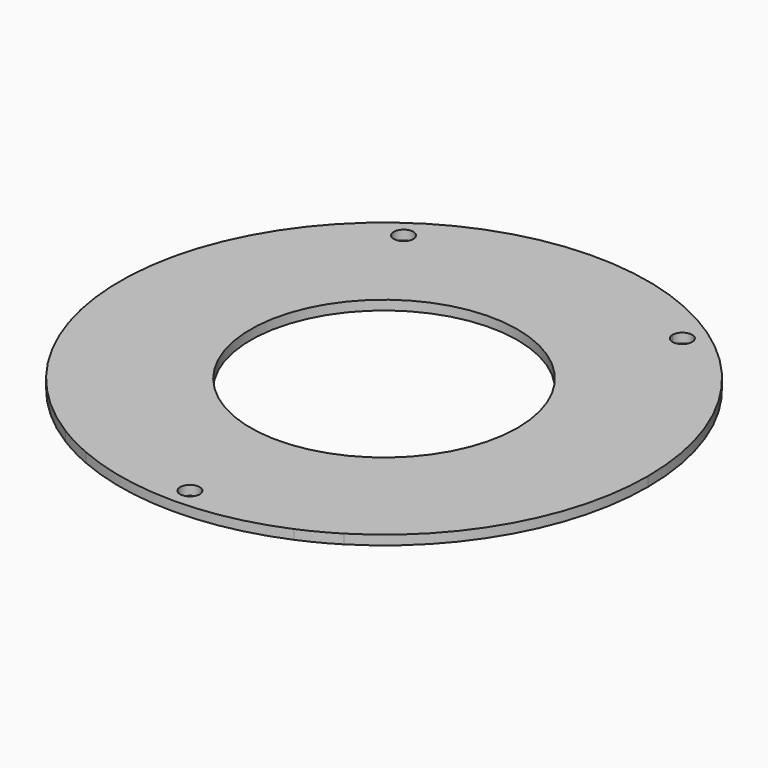
from build123d import *

# Parameters (mm, degrees)
F0_R     = 22.5
F1_DEPTH = 1.6


with BuildPart() as f1:
    # F0 (on Top) → F1 (new body)
    with BuildSketch(Plane.XY):
        with BuildLine():
            ThreePointArc((23.5, -37.7888872554), (38.8973006776, -21.6159663212), (44.5, 0))
            ThreePointArc((44.5, 0), (-21.6159663212, 38.8973006776), (-23.5, -37.7888872554))
            Line((-23.5, -37.7888872554), (-23.5, 31.8375))
            ThreePointArc((-23.5, 31.8375), (-24.666726189, 34.654226189), (-21.85, 33.4875))
            Line((-21.85, 33.4875), (21.85, 33.4875))
            ThreePointArc((21.85, 33.4875), (23.5, 35.1375), (25.15, 33.4875))
            ThreePointArc((25.15, 33.4875), (24.666726189, 32.320773811), (23.5, 31.8375))
            Line((23.5, 31.8375), (23.5, -37.7888872554))
        make_face()
        with BuildLine():
            Line((-23.5, 31.8375), (-23.5, -37.7888872554))
            ThreePointArc((-23.5, -37.7888872554), (-20.5617909506, -39.4647026202), (-17.504780597, -40.9125))
            Line((-17.504780597, -40.9125), (-1.65, -40.9125))
            ThreePointArc((-1.65, -40.9125), (0, -39.2625), (1.65, -40.9125))
            Line((1.65, -40.9125), (17.504780597, -40.9125))
            ThreePointArc((17.504780597, -40.9125), (20.5617909506, -39.4647026202), (23.5, -37.7888872554))
            Line((23.5, -37.7888872554), (23.5, 31.8375))
            ThreePointArc((23.5, 31.8375), (22.333273811, 32.320773811), (21.85, 33.4875))
            Line((21.85, 33.4875), (-21.85, 33.4875))
            ThreePointArc((-21.85, 33.4875), (-22.333273811, 32.320773811), (-23.5, 31.8375))
        make_face()
        Circle(F0_R, mode=Mode.SUBTRACT)
        with BuildLine():
            Line((-1.65, -40.9125), (-17.504780597, -40.9125))
            ThreePointArc((-17.504780597, -40.9125), (0, -44.5), (17.504780597, -40.9125))
            Line((17.504780597, -40.9125), (1.65, -40.9125))
            ThreePointArc((1.65, -40.9125), (0, -42.5625), (-1.65, -40.9125))
        make_face()
    extrude(amount=F1_DEPTH)


solid = f1.part
